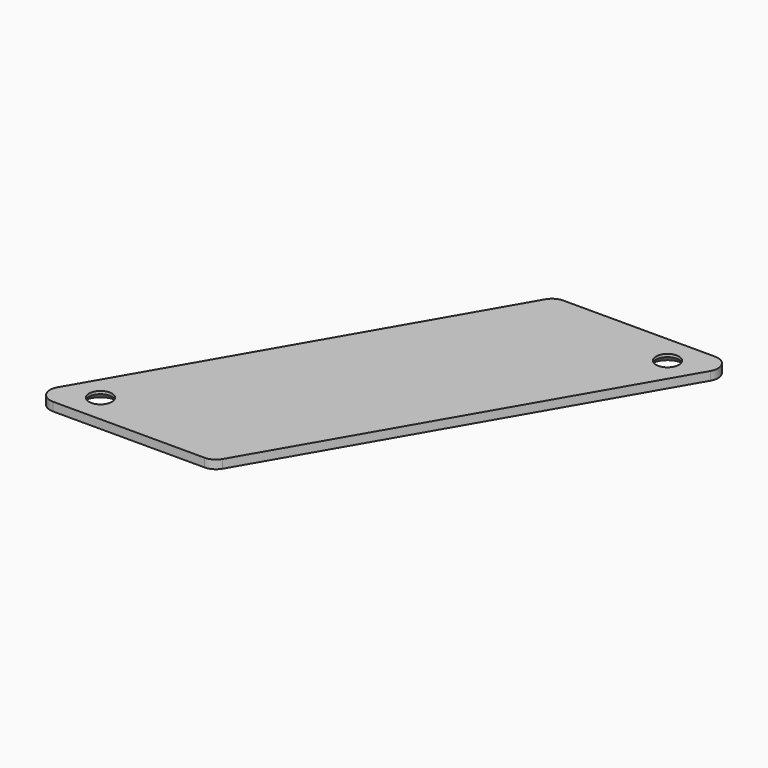
from build123d import *

# Parameters (mm, degrees)
F0_R     = 2
F1_DEPTH = 1.5
F2_SIZE  = 1


with BuildPart() as f1:
    # F0 (on Top) → F1 (new body)
    with BuildSketch(Plane.XY):
        with BuildLine():
            Line((-9.189322, 27.726636), (-44.985039, -34.273364))
            ThreePointArc((-44.985039, -34.273364), (-44.985039, -36.773364), (-42.819975, -38.023364))
            Line((-42.819975, -38.023364), (-16.261863, -38.023364))
            ThreePointArc((-16.261863, -38.023364), (-15.011863, -37.688427), (-14.096799, -36.773364))
            Line((-14.096799, -36.773364), (21.698917, 25.226636))
            ThreePointArc((21.698917, 25.226636), (21.698917, 27.726636), (19.533854, 28.976636))
            Line((19.533854, 28.976636), (-7.024259, 28.976636))
            ThreePointArc((-7.024259, 28.976636), (-8.274259, 28.6417), (-9.189322, 27.726636))
        make_face()
        with Locations((-38.489848, -33.023364)):
            Circle(F0_R, mode=Mode.SUBTRACT)
        with Locations((15.203727, 23.976636)):
            Circle(F0_R, mode=Mode.SUBTRACT)
    extrude(amount=F1_DEPTH)

    # F2
    f2_edges = [f1.edges().sort_by_distance(p)[0] for p in [
        (13.203727, 23.976636, 0),
        (-40.489848, -33.023364, 0),
    ]]
    chamfer(f2_edges, length=F2_SIZE)


solid = f1.part
